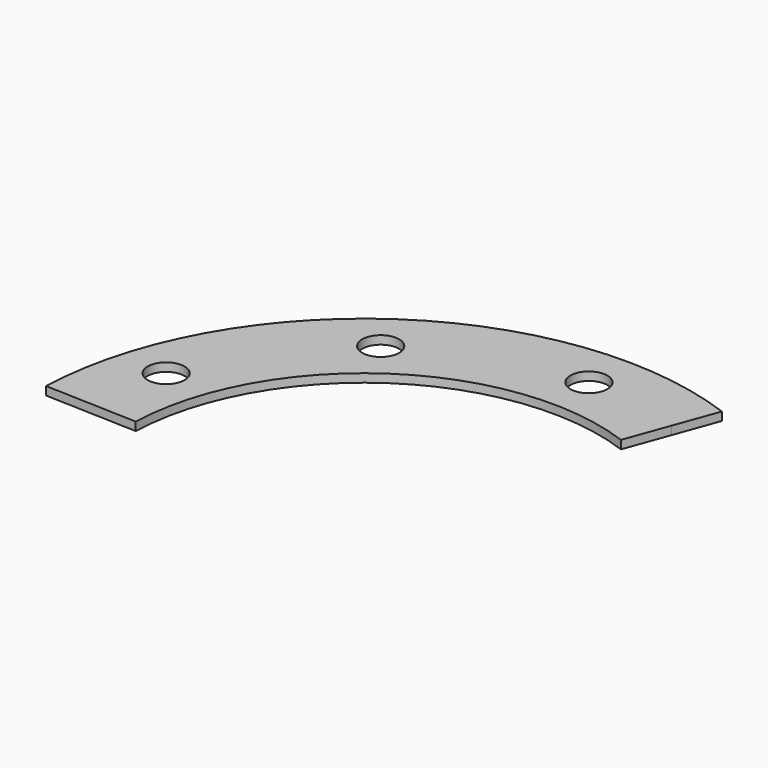
from build123d import *

# Parameters (mm, degrees)
F1_DEPTH = 5
F2_D     = 22


with BuildPart() as f1:
    # F0 (on Top) → F1 (new body)
    with BuildSketch(Plane.XY):
        with BuildLine():
            Line((47.8828200656, 131.55696691), (57.288374007, 157.3985139816))
            ThreePointArc((57.288374007, 157.3985139816), (-93.6648113313, 138.863793403), (-167.3979635257, 5.8456656977))
            Line((-167.3979635257, 5.8456656977), (-139.9147157827, 4.8859295384))
            ThreePointArc((-139.9147157827, 4.8859295384), (-78.2870064859, 116.0652601577), (47.8828200656, 131.55696691))
        make_face()
        with BuildLine():
            Line((57.288374007, 157.3985139816), (66.6939279485, 183.2400610533))
            ThreePointArc((66.6939279485, 183.2400610533), (-109.0426161768, 161.6623266482), (-194.8812112687, 6.805401857))
            Line((-194.8812112687, 6.805401857), (-167.3979635257, 5.8456656977))
            ThreePointArc((-167.3979635257, 5.8456656977), (-93.6648113313, 138.863793403), (57.288374007, 157.3985139816))
        make_face()
    extrude(amount=F1_DEPTH)

    # F2 (through all)
    with Locations(Plane(origin=(0, 0, 0), x_dir=(1, 0, 0), z_dir=(0, 0, -1))):
        with Locations((0, -167.5), (-98.454029759, -135.5103465578), (-159.3019664794, -51.7603465578)):
            Hole(F2_D / 2)


solid = f1.part
